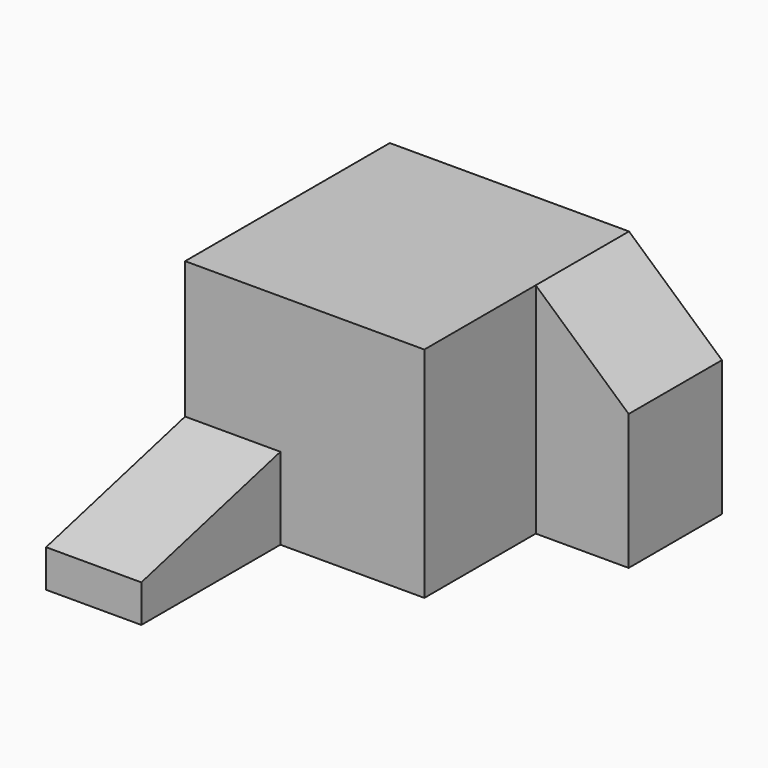
from build123d import *

# Parameters (mm, degrees)
F0_W     = 59.5203563571
F0_H     = 63.6409893632
F1_DEPTH = 27.2
F3_DEPTH = 29
F5_DEPTH = 23.7


with BuildPart() as f1:
    # F0 (on Top) → F1 (new body, symmetric)
    with BuildSketch(Plane.XY):
        Rectangle(F0_W, F0_H)
    extrude(amount=F1_DEPTH, both=True)

    # F2 (on face) → F3 (join)
    with BuildSketch(Plane(origin=(0, 31.8204946816, 0), x_dir=(-1, 0, 0), z_dir=(0, 1, 0))):
        Polygon((-29.7601781785, -27.2), (-29.7601781785, 27.2), (-52.8728328645, 6.5217590891), (-52.8728328645, -27.2), align=None)
    extrude(amount=-F3_DEPTH)

    # F4 (on face) → F5 (join)
    with BuildSketch(Plane(origin=(-29.7601781785, 0, 0), x_dir=(0, -1, 0), z_dir=(-1, 0, 0))):
        Polygon((31.8204946816, -6.837928202), (31.8204946816, -27.2), (75.0524103642, -27.2), (75.0524103642, -17.8717095405), align=None)
    extrude(amount=-F5_DEPTH)


solid = f1.part
